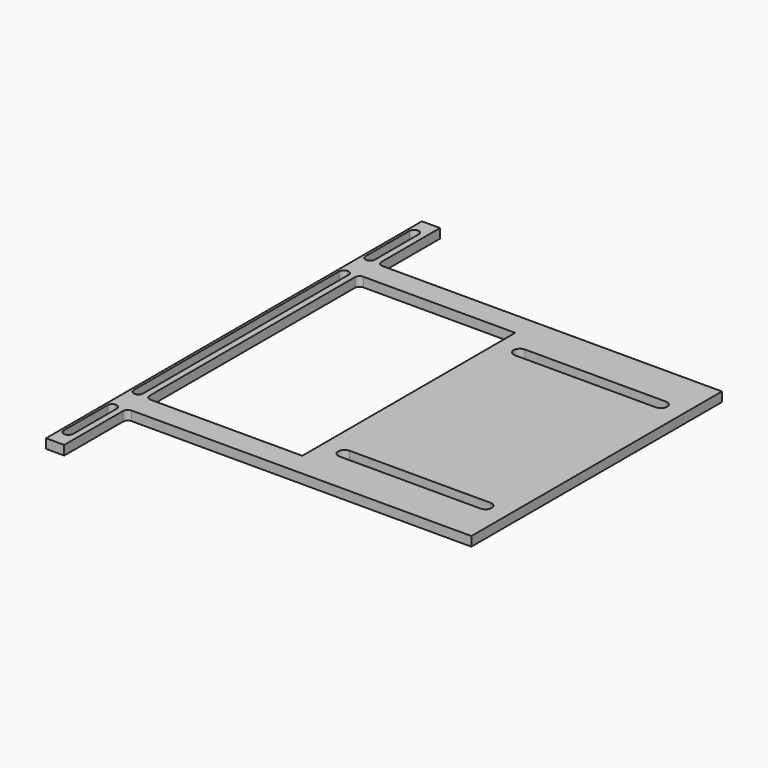
from build123d import *

# Parameters (mm, degrees)
F1_DEPTH = 3


with BuildPart() as f1:
    # F0 (on Top) → F1 (new body)
    with BuildSketch(Plane.XY):
        with BuildLine():
            Line((-8.045439, -39.898372), (-8.045439, 60.101628))
            Line((-8.045439, 60.101628), (-116.545439, 60.101628))
            ThreePointArc((-116.545439, 60.101628), (-117.606099, 60.540968), (-118.045439, 61.601628))
            Line((-118.045439, 61.601628), (-118.045439, 85.101628))
            Line((-118.045439, 85.101628), (-123.845439, 85.101628))
            Line((-123.845439, 85.101628), (-123.845439, -64.898372))
            Line((-123.845439, -64.898372), (-118.045439, -64.898372))
            Line((-118.045439, -64.898372), (-118.045439, -41.398372))
            ThreePointArc((-118.045439, -41.398372), (-117.606099, -40.337711), (-116.545439, -39.898372))
            Line((-116.545439, -39.898372), (-8.045439, -39.898372))
        make_face()
        with BuildLine():
            ThreePointArc((-120.045439, -58.898372), (-121.545439, -60.398372), (-123.045439, -58.898372))
            Line((-123.045439, -58.898372), (-123.045439, -41.398372))
            ThreePointArc((-123.045439, -41.398372), (-122.606099, -40.337711), (-121.545439, -39.898372))
            ThreePointArc((-121.545439, -39.898372), (-120.484779, -40.337711), (-120.045439, -41.398372))
            Line((-120.045439, -41.398372), (-120.045439, -58.898372))
        make_face(mode=Mode.SUBTRACT)
        with BuildLine():
            Line((-123.045439, -30.898372), (-123.045439, 51.101628))
            ThreePointArc((-123.045439, 51.101628), (-122.606099, 52.162289), (-121.545439, 52.601628))
            ThreePointArc((-121.545439, 52.601628), (-120.484779, 52.162289), (-120.045439, 51.101628))
            Line((-120.045439, 51.101628), (-120.045439, -30.898372))
            ThreePointArc((-120.045439, -30.898372), (-120.484779, -31.959032), (-121.545439, -32.398372))
            ThreePointArc((-121.545439, -32.398372), (-122.606099, -31.959032), (-123.045439, -30.898372))
        make_face(mode=Mode.SUBTRACT)
        with BuildLine():
            Line((-15.545439, -26.898372), (-60.545439, -26.898372))
            ThreePointArc((-60.545439, -26.898372), (-62.545439, -24.898372), (-60.545439, -22.898372))
            Line((-60.545439, -22.898372), (-15.545439, -22.898372))
            ThreePointArc((-15.545439, -22.898372), (-13.545439, -24.898372), (-15.545439, -26.898372))
        make_face(mode=Mode.SUBTRACT)
        with BuildLine():
            Line((-118.045439, -30.898372), (-118.045439, 51.101628))
            ThreePointArc((-118.045439, 51.101628), (-117.606099, 52.162289), (-116.545439, 52.601628))
            Line((-116.545439, 52.601628), (-68.045439, 52.601628))
            Line((-68.045439, 52.601628), (-68.045439, -32.398372))
            Line((-68.045439, -32.398372), (-116.545439, -32.398372))
            ThreePointArc((-116.545439, -32.398372), (-117.606099, -31.959032), (-118.045439, -30.898372))
        make_face(mode=Mode.SUBTRACT)
        with BuildLine():
            Line((-123.045439, 61.601628), (-123.045439, 79.101628))
            ThreePointArc((-123.045439, 79.101628), (-121.545439, 80.601628), (-120.045439, 79.101628))
            Line((-120.045439, 79.101628), (-120.045439, 61.601628))
            ThreePointArc((-120.045439, 61.601628), (-120.484779, 60.540968), (-121.545439, 60.101628))
            ThreePointArc((-121.545439, 60.101628), (-122.606099, 60.540968), (-123.045439, 61.601628))
        make_face(mode=Mode.SUBTRACT)
        with BuildLine():
            ThreePointArc((-15.545439, 47.101628), (-13.545439, 45.101628), (-15.545439, 43.101628))
            Line((-15.545439, 43.101628), (-60.545439, 43.101628))
            ThreePointArc((-60.545439, 43.101628), (-62.545439, 45.101628), (-60.545439, 47.101628))
            Line((-60.545439, 47.101628), (-15.545439, 47.101628))
        make_face(mode=Mode.SUBTRACT)
    extrude(amount=F1_DEPTH)


solid = f1.part
